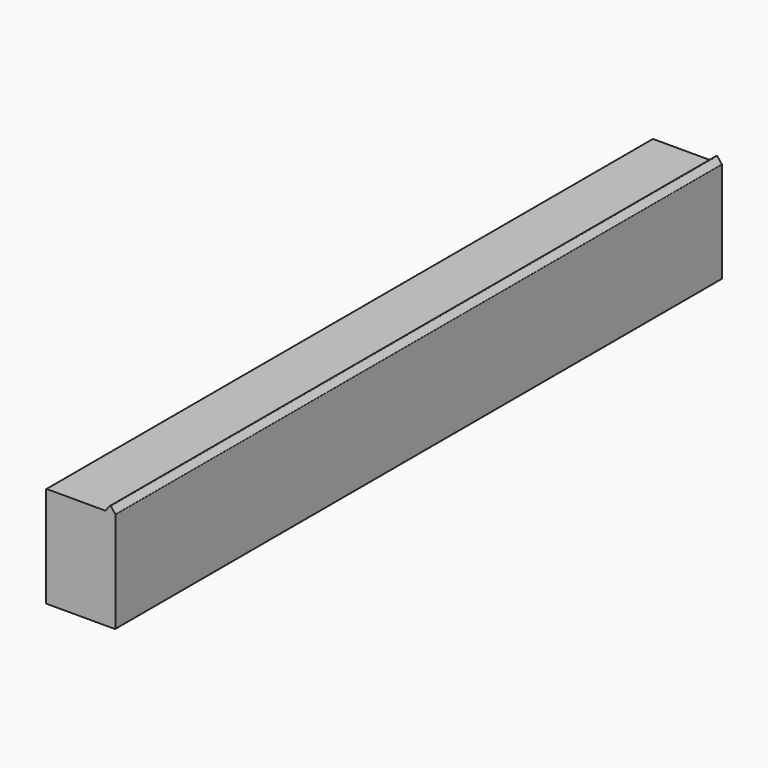
from build123d import *

# Parameters (mm, degrees)
F1_DEPTH = 600
F2_R     = 0.5


with BuildPart() as f1:
    # F0 (on Front) → F1 (new body)
    with BuildSketch(Plane.XZ):
        Polygon((27.475, -40), (27.475, 40), (19.475, 40), (-27.475, 40), (-27.475, -40), align=None)
        Polygon((19.475, 40), (27.475, 40), (23.475, 45), align=None)
    extrude(amount=F1_DEPTH)

    # F2
    f2_edges = [f1.edges().sort_by_distance(p)[0] for p in [
        (23.475, -300, 45),
        (27.475, -300, 40),
        (19.475, -300, 40),
        (-27.475, -300, 40),
        (-27.475, -300, -40),
        (27.475, -300, -40),
    ]]
    fillet(f2_edges, radius=F2_R)


solid = f1.part
